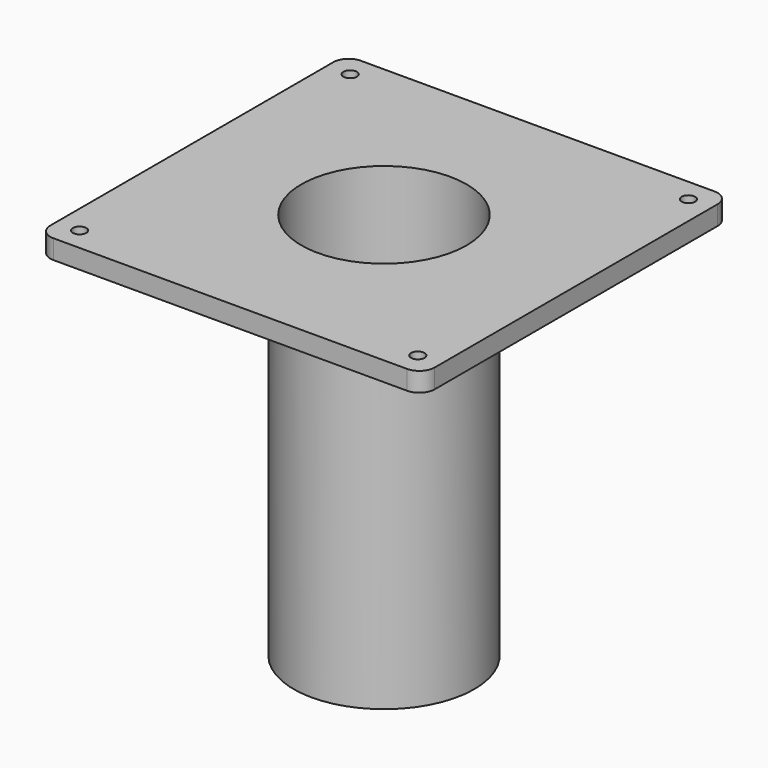
from build123d import *

# Parameters (mm, degrees)
F0_R     = 11.1125
F1_DEPTH = 31.75
F2_R     = 149.225
F2_R_2   = 136.525
F3_DEPTH = 609.6
F4_R     = 136.525
F5_DEPTH = 50.8


with BuildPart() as f1:
    # F0 (on Top) → F1 (new body)
    with BuildSketch(Plane.XY):
        with BuildLine():
            ThreePointArc((317.5, 292.1), (310.060512, 310.060512), (292.1, 317.5))
            Line((292.1, 317.5), (-292.1, 317.5))
            ThreePointArc((-292.1, 317.5), (-310.060512, 310.060512), (-317.5, 292.1))
            Line((-317.5, 292.1), (-317.5, -292.1))
            ThreePointArc((-317.5, -292.1), (-310.060512, -310.060512), (-292.1, -317.5))
            Line((-292.1, -317.5), (292.1, -317.5))
            ThreePointArc((292.1, -317.5), (310.060512, -310.060512), (317.5, -292.1))
            Line((317.5, -292.1), (317.5, 292.1))
        make_face()
        with Locations((-279.4, -279.4)):
            Circle(F0_R, mode=Mode.SUBTRACT)
        with Locations((279.4, -279.4)):
            Circle(F0_R, mode=Mode.SUBTRACT)
        with Locations((-279.4, 279.4)):
            Circle(F0_R, mode=Mode.SUBTRACT)
        with Locations((279.4, 279.4)):
            Circle(F0_R, mode=Mode.SUBTRACT)
    extrude(amount=F1_DEPTH)

    # F2 (on face) → F3 (join)
    with BuildSketch(Plane(origin=(0, 0, 0), x_dir=(1, 0, 0), z_dir=(0, 0, -1))):
        Circle(F2_R)
        Circle(F2_R_2, mode=Mode.SUBTRACT)
    extrude(amount=F3_DEPTH)

    # F4 (on face) → F5 (cut)
    with BuildSketch(Plane.XY.offset(31.75)):
        Circle(F4_R)
    extrude(amount=-F5_DEPTH, mode=Mode.SUBTRACT)


solid = f1.part
